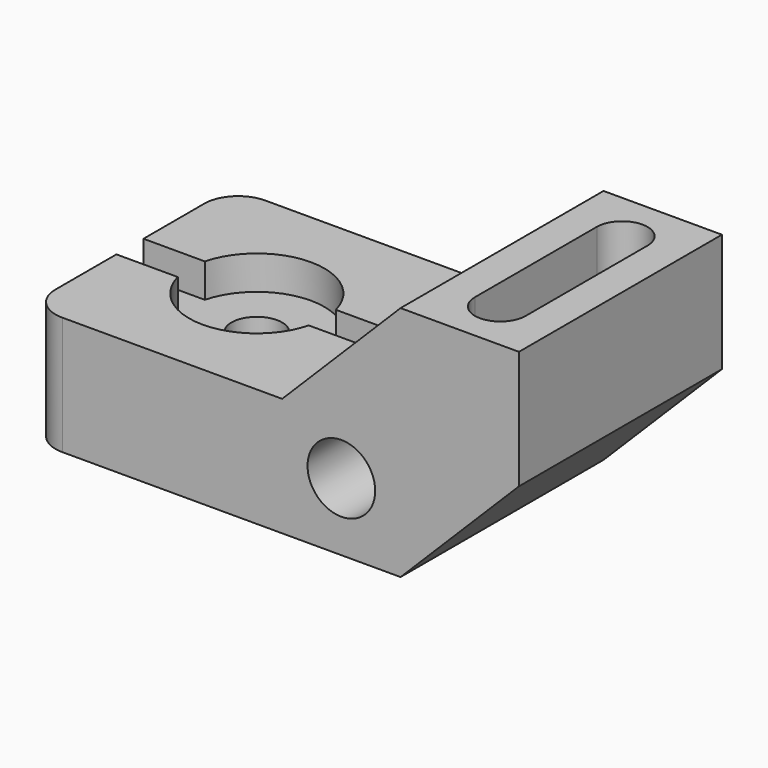
from build123d import *

# Parameters (mm, degrees)
F0_R           = 10.16
F1_DEPTH       = 76.2
F2_R           = 10.16
F3_W           = 76.2
F3_H           = 10.16
F4_DEPTH       = 10.16
F6_DEPTH       = 27.94
F7_D           = 15.24
F7_START       = 45.72
F7_CBORE_D     = 40.64
F7_CBORE_DEPTH = 0


with BuildPart() as f1:
    # F0 (on Front) → F1 (new body)
    with BuildSketch(Plane.XZ):
        Polygon((0, 35.56), (0, 0), (111.76, 0), (147.32, 35.56), (147.32, 71.12), (111.76, 71.12), (76.2, 35.56), align=None)
        with Locations((93.98, 20.32)):
            Circle(F0_R, mode=Mode.SUBTRACT)
    extrude(amount=F1_DEPTH)

    # F2
    f2_edges = [f1.edges().sort_by_distance(p)[0] for p in [
        (0, -76.2, 17.78),
        (0, 0, 17.78),
    ]]
    fillet(f2_edges, radius=F2_R)

    # F3 (on face) → F4 (cut)
    with BuildSketch(Plane.XY.offset(35.56)):
        with Locations((38.1, -38.1)):
            Rectangle(F3_W, F3_H)
    extrude(amount=-F4_DEPTH, mode=Mode.SUBTRACT)

    # F5 (on face) → F6 (cut)
    with BuildSketch(Plane.XY.offset(71.12)):
        with BuildLine():
            ThreePointArc((137.16, -15.24), (129.54, -7.62), (121.92, -15.24))
            Line((121.92, -15.24), (121.92, -60.96))
            ThreePointArc((121.92, -60.96), (129.54, -68.58), (137.16, -60.96))
            Line((137.16, -60.96), (137.16, -15.24))
        make_face()
    extrude(amount=-F6_DEPTH, mode=Mode.SUBTRACT)

    # F7 (through all)
    # its depths count from where the whole tool has entered the part; down to there all is cleared
    with Locations(Plane.XY.offset(71.12).offset(-F7_START)):
        with Locations((38.1, -38.1)):
            CounterBoreHole(F7_D / 2, F7_CBORE_D / 2, F7_CBORE_DEPTH)


solid = f1.part
